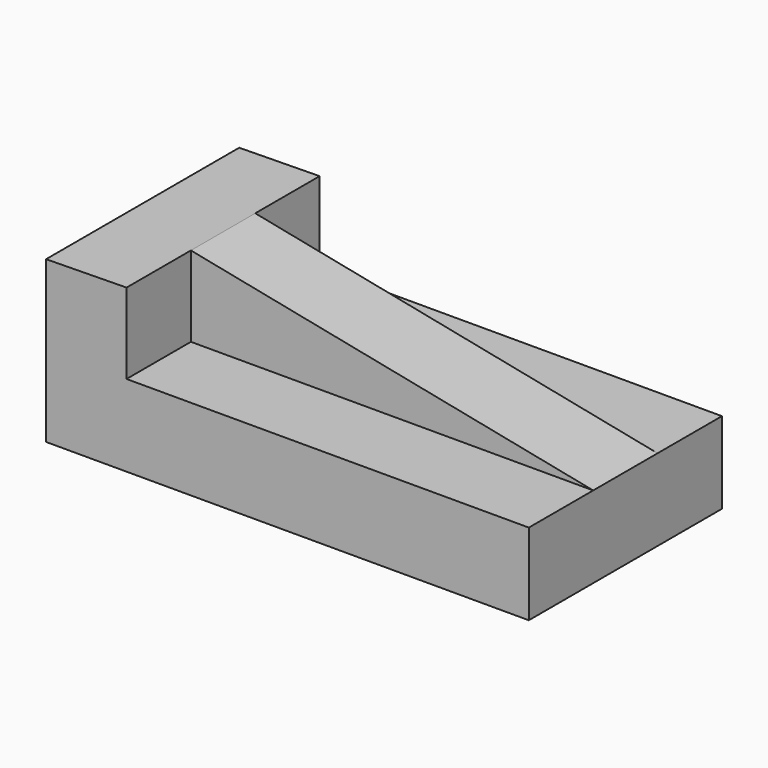
from build123d import *

# Parameters (mm, degrees)
F1_DEPTH = 76.2
F2_W     = 127.0025914325
F2_H     = 25.4
F3_DEPTH = 25.4
F5_DEPTH = 25.4


with BuildPart() as f1:
    # F0 (on Front) → F1 (new body)
    with BuildSketch(Plane.XZ):
        Polygon((-100.3097782258, 25.4), (-125.7071867934, 25.0371804097), (-125.7071867934, -25.7628195903), (26.6928132066, -25.7628195903), (26.6928132066, 0), (-100.3097782258, 0), align=None)
    extrude(amount=F1_DEPTH)

    # F2 (on face) → F3 (join)
    with BuildSketch(Plane.XY):
        with Locations((-36.8084825096, -38.1)):
            Rectangle(F2_W, F2_H)
    extrude(amount=F3_DEPTH)

    # F4 (on face) → F5 (cut)
    with BuildSketch(Plane.XZ.offset(50.8)):
        Polygon((26.6928132066, 25.4), (-100.3097782258, 25.4), (26.6928132066, 0), align=None)
    extrude(amount=-F5_DEPTH, mode=Mode.SUBTRACT)


solid = f1.part
